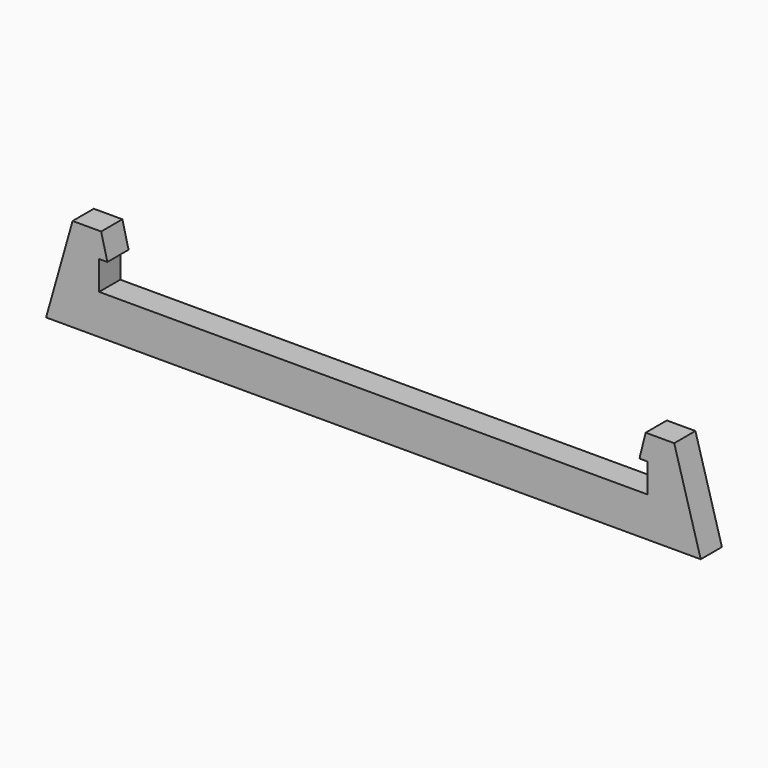
from build123d import *

# Parameters (mm, degrees)
F1_DEPTH = 1.27


with BuildPart() as f1:
    # F0 (on Front) → F1 (new body, symmetric)
    with BuildSketch(Plane.XZ):
        Polygon((0, 3.81), (0, 0), (31.372969, 0), (28.832969, 8.969375), (26.094531, 8.969375), (25.499219, 6.588125), (26.292969, 6.588125), (26.292969, 3.81), align=None)
    extrude(amount=F1_DEPTH, both=True)

    # F2: F1 across plane


with BuildPart() as f1_1:
    add(f1.part)
    add(f1.part.mirror(Plane.YZ))


solid = f1_1.part
